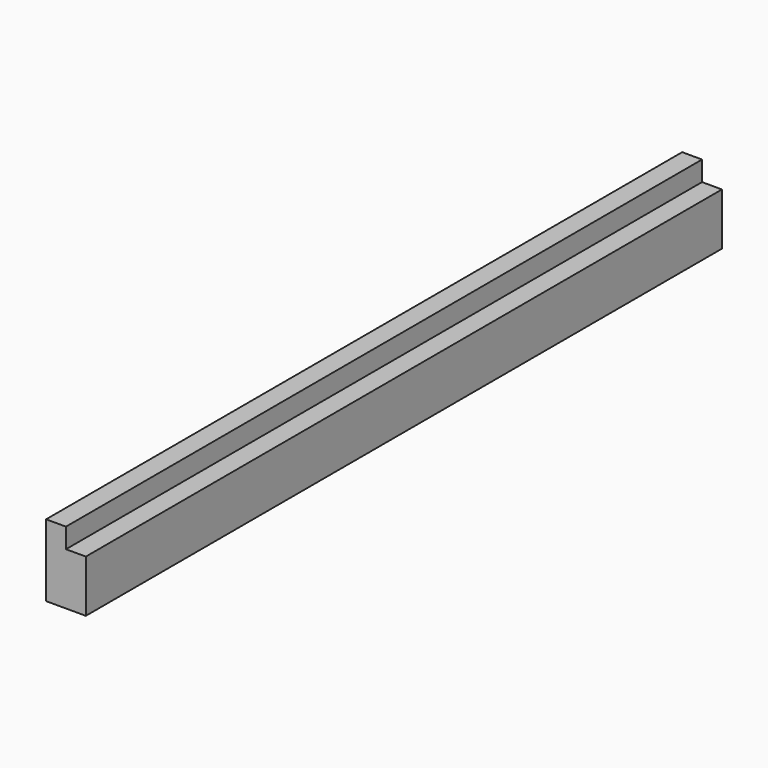
from build123d import *

# Parameters (mm, degrees)
F0_W     = 6.35
F0_H     = 127
F1_DEPTH = 11.50874
F2_W     = 3.175
F2_H     = 3.175
F3_DEPTH = 127
F4_R     = 1.35255
F5_DEPTH = 3.175


with BuildPart() as f1:
    # F0 (on Top) → F1 (new body)
    with BuildSketch(Plane.XY):
        with Locations((-3.175, -63.5)):
            Rectangle(F0_W, F0_H)
    extrude(amount=F1_DEPTH)

    # F2 (on face) → F3 (cut, through all)
    with BuildSketch(Plane.XZ.offset(127)):
        with Locations((-1.5875, 9.92124)):
            Rectangle(F2_W, F2_H)
    extrude(amount=-F3_DEPTH, mode=Mode.SUBTRACT)

    # F4 (on face) → F5 (cut)
    with BuildSketch(Plane(origin=(0, 0, 0), x_dir=(1, 0, 0), z_dir=(0, 0, -1))):
        with Locations((-3.175, 123.825)):
            Circle(F4_R)
        with Locations((-3.175, 63.5)):
            Circle(F4_R)
        with Locations((-3.175, 3.175)):
            Circle(F4_R)
    extrude(amount=-F5_DEPTH, mode=Mode.SUBTRACT)


solid = f1.part
